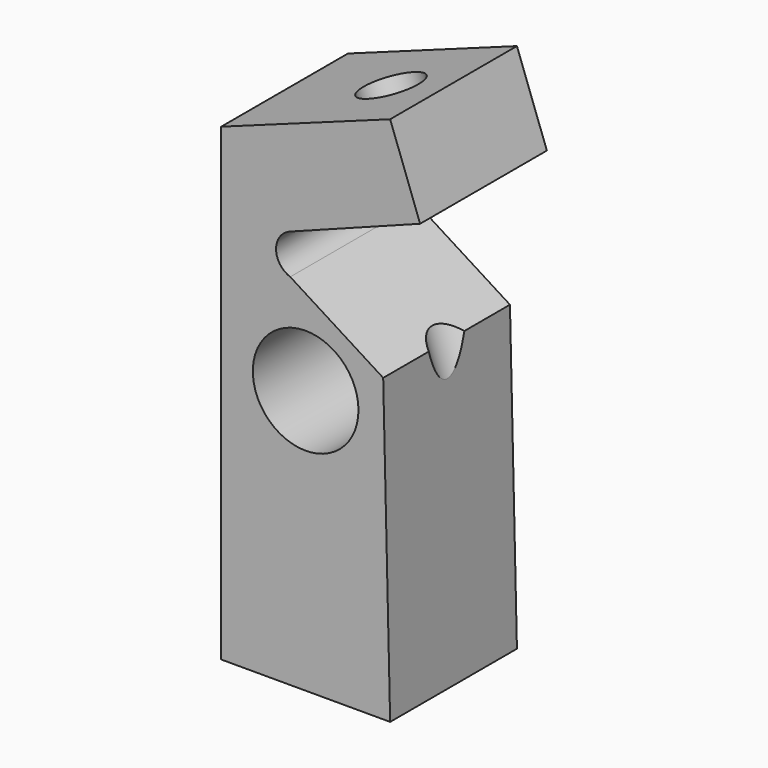
from build123d import *

# Parameters (mm, degrees)
F0_R     = 5
F1_DEPTH = 15
F3_D     = 5.5
F3_DEPTH = 50
F3_TIP   = 1.6523667023
F5_D     = 4.4
F5_DEPTH = 8
F5_TIP   = 1.3218933619
F6_R     = 2
F7_DEPTH = 5


with BuildPart() as f1:
    # F0 (on Front) → F1 (new body)
    with BuildSketch(Plane.XZ):
        with BuildLine():
            Line((-8, -18.9268288441), (8, -18.9268288441))
            Line((8, -18.9268288441), (7.3407884225, 9.531441468))
            Line((7.3407884225, 9.531441468), (-1.4592115775, 15.0849338573))
            ThreePointArc((-1.4592115775, 15.0849338573), (-2.7998378703, 16.9477056406), (-1.5070788684, 18.8440103991))
            Line((-1.5070788684, 18.8440103991), (10.8346573695, 23.5085377897))
            Line((10.8346573695, 23.5085377897), (8, 31.2966949042))
            Line((8, 31.2966949042), (-8, 25.4731711559))
            Line((-8, 25.4731711559), (-8, -18.9268288441))
        make_face()
        with Locations((0, 6.0731711559)):
            Circle(F0_R, mode=Mode.SUBTRACT)
    extrude(amount=F1_DEPTH)

    # F3
    with Locations(Plane(origin=(-9.1227416268, 0, 25.064526623), x_dir=(0.9396926208, 0, 0.3420201433), z_dir=(-0.3420201433, 0, 0.9396926208))):
        with Locations((11.921641043, -7.5)):
            Hole(F3_D / 2, depth=F3_DEPTH)
            with Locations((0, 0, -(F3_DEPTH + F3_TIP / 2))):  # 118° drill point
                Cone(0, F3_D / 2, F3_TIP, mode=Mode.SUBTRACT)

    # F5
    with Locations(Plane(origin=(0, 0, -18.9268288441), x_dir=(1, 0, 0), z_dir=(0, 0, -1))):
        with Locations((0, 12.5), (0, 2.5)):
            Hole(F5_D / 2, depth=F5_DEPTH)
            with Locations((0, 0, -(F5_DEPTH + F5_TIP / 2))):  # 118° drill point
                Cone(0, F5_D / 2, F5_TIP, mode=Mode.SUBTRACT)

    # F6 (on face) → F7 (cut)
    with BuildSketch(Plane(origin=(0, 0, -18.9268288441), x_dir=(1, 0, 0), z_dir=(0, 0, -1))):
        with Locations((-4.5, 7.5)):
            Circle(F6_R)
    extrude(amount=-F7_DEPTH, mode=Mode.SUBTRACT)


solid = f1.part
